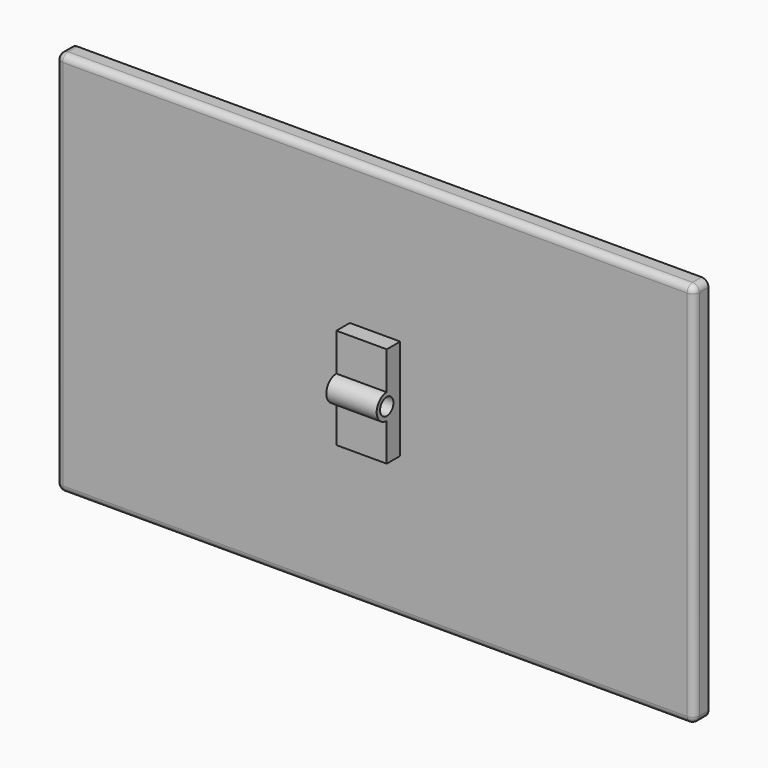
from build123d import *

# Parameters (mm, degrees)
F0_W      = 38.1
F0_H      = 76.2
F1_DEPTH  = 12.7
F2_R      = 9.525
F3_DEPTH  = 38.1
F4_R      = 6.35
F5_DEPTH  = 40.386
F6_W      = 482.6
F6_H      = 292.1
F7_DEPTH  = 13.716
F8_R      = 5.08
F10_DEPTH = 0.254


with BuildPart() as f1:
    # F0 (on Front) → F1 (new body)
    with BuildSketch(Plane.XZ):
        Rectangle(F0_W, F0_H)
    extrude(amount=F1_DEPTH)

    # F2 (on face) → F3 (join)
    with BuildSketch(Plane.YZ.offset(19.05)):
        with Locations((-12.7, 0)):
            Circle(F2_R)
    extrude(amount=-F3_DEPTH)

    # F4 (on face) → F5 (cut)
    with BuildSketch(Plane.YZ.offset(19.05)):
        with Locations((-12.7, 0)):
            Circle(F4_R)
    extrude(amount=-F5_DEPTH, mode=Mode.SUBTRACT)

    # F6 (on face) → F7 (join)
    with BuildSketch(Plane(origin=(0, 0, 0), x_dir=(-1, 0, 0), z_dir=(0, 1, 0))):
        Rectangle(F6_W, F6_H)
    extrude(amount=F7_DEPTH)

    # F8
    f8_edges = [f1.edges().sort_by_distance(p)[0] for p in [
        (-241.3, 6.858, 146.05),
        (-241.3, 6.858, -146.05),
        (241.3, 6.858, -146.05),
        (241.3, 6.858, 146.05),
        (241.3, 0, 0),
        (0, 0, 146.05),
        (-241.3, 0, 0),
        (0, 0, -146.05),
    ]]
    fillet(f8_edges, radius=F8_R)

    # F9 (on face) → F10 (cut)
    with BuildSketch(Plane(origin=(0, 13.716, 0), x_dir=(-1, 0, 0), z_dir=(0, 1, 0))):
        with BuildLine():
            Line((-234.569, -139.7), (234.569, -139.7))
            ThreePointArc((234.569, -139.7), (234.838408, -139.588408), (234.95, -139.319))
            Line((234.95, -139.319), (234.95, 139.319))
            ThreePointArc((234.95, 139.319), (234.838408, 139.588408), (234.569, 139.7))
            Line((234.569, 139.7), (-234.569, 139.7))
            ThreePointArc((-234.569, 139.7), (-234.838408, 139.588408), (-234.95, 139.319))
            Line((-234.95, 139.319), (-234.95, -139.319))
            ThreePointArc((-234.95, -139.319), (-234.838408, -139.588408), (-234.569, -139.7))
        make_face()
    extrude(amount=-F10_DEPTH, mode=Mode.SUBTRACT)


solid = f1.part
